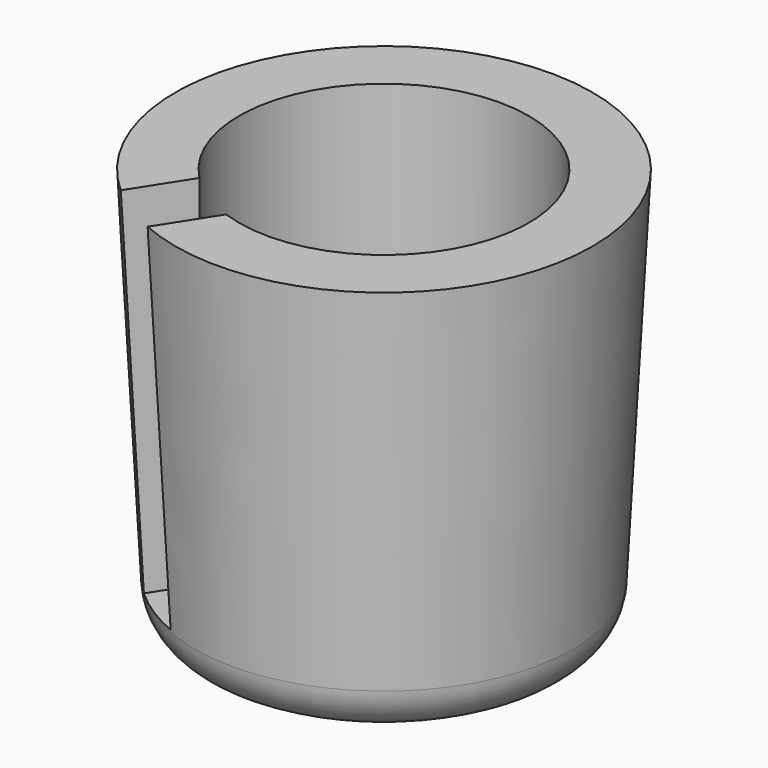
from build123d import *

# Parameters (mm, degrees)
F0_R     = 5.75
F1_DEPTH = 12.5
F1_TAPER = -3
F3_DEPTH = 11
F4_R     = 1.5


with BuildPart() as f1:
    # F0 (on Top) → F1 (new body)
    with BuildSketch(Plane.XY):
        Circle(F0_R)
    extrude(amount=F1_DEPTH, taper=F1_TAPER)

    # F2 (on face) → F3 (cut)
    with BuildSketch(Plane.XY.offset(12.5)):
        with BuildLine():
            Line((-4.8323294905, -9.4099955732), (-1.494225813, -4.1916332401))
            ThreePointArc((-1.494225813, -4.1916332401), (2.3979489295, 3.7486452128), (-3.1790101783, -3.1139033842))
            Line((-3.1790101783, -3.1139033842), (-6.5171138558, -8.3322657173))
            Line((-6.5171138558, -8.3322657173), (-4.8323294905, -9.4099955732))
        make_face()
    extrude(amount=-F3_DEPTH, mode=Mode.SUBTRACT)

    # F4
    f4_edges = [f1.edges().sort_by_distance(p)[0] for p in [
        (-5.75, 0, 0),
    ]]
    fillet(f4_edges, radius=F4_R)


solid = f1.part
